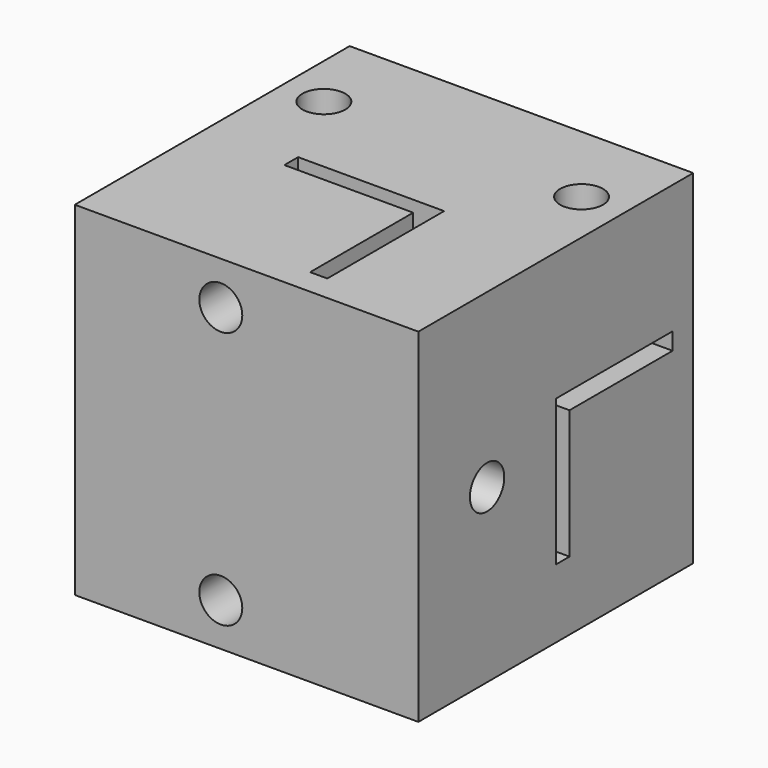
from build123d import *

# Parameters (mm, degrees)
F0_W      = 50.8
F0_H      = 50.8
F1_DEPTH  = 50.8
F3_DEPTH  = 50.8
F5_DEPTH  = 50.8
F6_R      = 3.175
F7_DEPTH  = 22.86
F8_R      = 3.175
F9_DEPTH  = 16.51
F10_R     = 3.175
F11_DEPTH = 19.05
F12_R     = 3.175
F13_DEPTH = 22.86


with BuildPart() as f1:
    # F0 (on Top) → F1 (new body)
    with BuildSketch(Plane.XY):
        with Locations((9.251333, 14.910408)):
            Rectangle(F0_W, F0_H)
    extrude(amount=F1_DEPTH)

    # F2 (on face) → F3 (cut, through all)
    with BuildSketch(Plane.XY.offset(50.8)):
        Polygon((-3.448667, 14.910408), (-3.448667, 12.370408), (15.601333, 12.370408), (15.601333, -6.679592), (18.141333, -6.679592), (18.141333, 14.910408), align=None)
    extrude(amount=-F3_DEPTH, mode=Mode.SUBTRACT)

    # F4 (on face) → F5 (cut, through all)
    with BuildSketch(Plane(origin=(-16.148667, 0, 0), x_dir=(0, -1, 0), z_dir=(-1, 0, 0))):
        Polygon((-14.910408, 10.16), (-14.910408, 31.75), (-36.500408, 31.75), (-36.500408, 29.21), (-17.450408, 29.21), (-17.450408, 10.16), align=None)
    extrude(amount=-F5_DEPTH, mode=Mode.SUBTRACT)

    # F6 (on face) → F7 (cut, through all)
    with BuildSketch(Plane.XZ.offset(10.489592)):
        with Locations((5.441333, 44.45)):
            Circle(F6_R)
        with Locations((5.441333, 6.35)):
            Circle(F6_R)
    extrude(amount=-F7_DEPTH, mode=Mode.SUBTRACT)

    # F8 (on face) → F9 (cut, through all)
    with BuildSketch(Plane.YZ.offset(34.651333)):
        with Locations((2.210408, 25.4)):
            Circle(F8_R)
    extrude(amount=-F9_DEPTH, mode=Mode.SUBTRACT)

    # F10 (on face) → F11 (cut, through all)
    with BuildSketch(Plane.XY.offset(50.8)):
        with Locations((28.301333, 27.610408)):
            Circle(F10_R)
        with Locations((-9.798667, 27.610408)):
            Circle(F10_R)
    extrude(amount=-F11_DEPTH, mode=Mode.SUBTRACT)

    # F12 (on face) → F13 (cut, through all)
    with BuildSketch(Plane(origin=(0, 40.310408, 0), x_dir=(-1, 0, 0), z_dir=(0, 1, 0))):
        with Locations((-25.126333, 15.875)):
            Circle(F12_R)
        with Locations((6.623667, 15.875)):
            Circle(F12_R)
    extrude(amount=-F13_DEPTH, mode=Mode.SUBTRACT)


solid = f1.part
